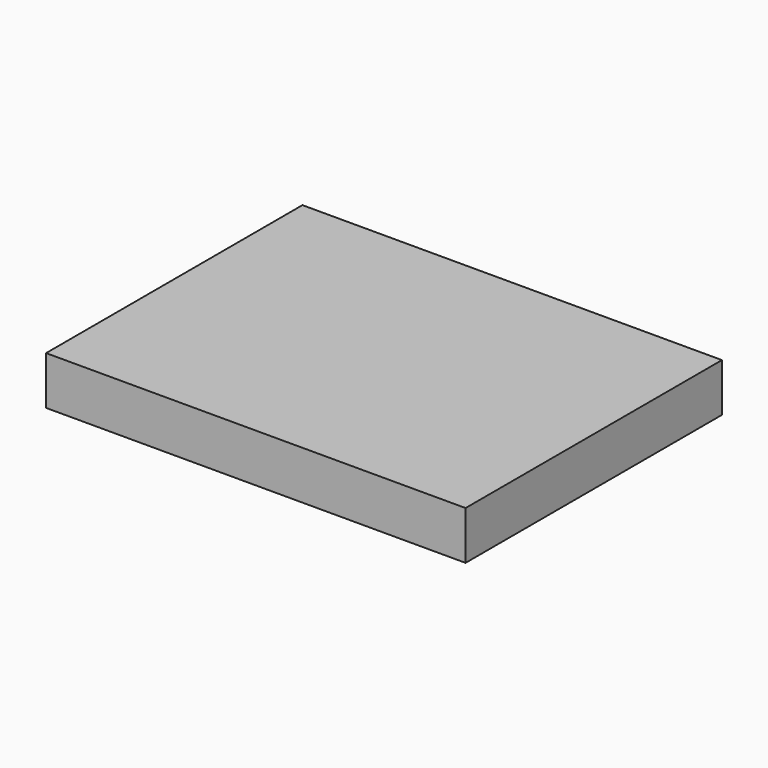
from build123d import *

# Parameters (mm, degrees)
F0_W     = 112.5625893474
F0_H     = 85.9847515821
F1_DEPTH = 25
F2_R     = 5
F3_DEPTH = 10
F4_R     = 4.0842384209
F5_DEPTH = 8.1610530615
F2_W     = 112.5625893474
F2_H     = 85.9847515821
F6_DEPTH = 12.0471520349


with BuildPart() as f1:
    # F0 (on Top) → F1 (new body)
    with BuildSketch(Plane.XY):
        Rectangle(F0_W, F0_H)
    extrude(amount=F1_DEPTH)

    # F2 (on face) → F3 (cut)
    with BuildSketch(Plane.XY.offset(25)):
        with Locations((37.7486944199, -25.8610993624)):
            Circle(F2_R)
    extrude(amount=-F3_DEPTH, mode=Mode.SUBTRACT)

    # F4 (on face) → F5 (join)
    with BuildSketch(Plane.XY.offset(15)):
        with Locations((37.7486944199, -25.8610993624)):
            Circle(F4_R)
    extrude(amount=F5_DEPTH)

    # F2 (on face) → F6 (cut)
    with BuildSketch(Plane.XY.offset(25)):
        Rectangle(F2_W, F2_H)
        with Locations((37.7486944199, -25.8610993624)):
            Circle(F2_R, mode=Mode.SUBTRACT)
        with Locations((37.7486944199, -25.8610993624)):
            Circle(F2_R)
    extrude(amount=-F6_DEPTH, mode=Mode.SUBTRACT)


solid = f1.part
